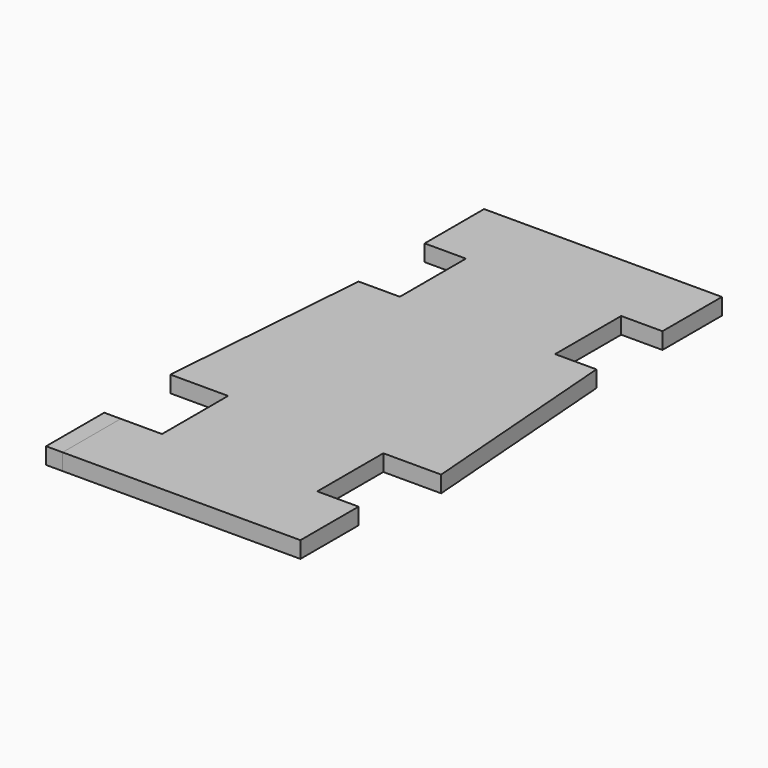
from build123d import *

# Parameters (mm, degrees)
F2_DEPTH = 10
F1_W     = 10
F1_H     = 44


with BuildPart() as f2:
    # F0 (on Top) → F2 (new body)
    with BuildSketch(Plane.XY):
        Polygon((0, 156.0560178757), (-72, 156.0560178757), (-72, 111.0560178757), (-47, 111.0560178757), (-47, 61.0560178757), (-72, 61.0560178757), (-82, -68.9439821243), (-72, -68.9439821243), (-47, -68.9439821243), (-47, -118.9439821243), (-72, -118.9439821243), (-72, -162.9439821243), (0, -162.9439821243), align=None)
        Polygon((72, 156.0560178757), (0, 156.0560178757), (0, -162.9439821243), (72, -162.9439821243), (72, -118.9439821243), (47, -118.9439821243), (47, -68.9439821243), (72, -68.9439821243), (82, -68.9439821243), (72, 61.0560178757), (47, 61.0560178757), (47, 111.0560178757), (72, 111.0560178757), align=None)
    extrude(amount=F2_DEPTH)


with BuildPart() as f2b:
    # F1 (on face) → F2, piece 2 (new body)
    with BuildSketch(Plane.XY):
        with Locations((-77, -140.9439821243)):
            Rectangle(F1_W, F1_H)
    extrude(amount=F2_DEPTH)


solid = Compound([f2.part, f2b.part])
